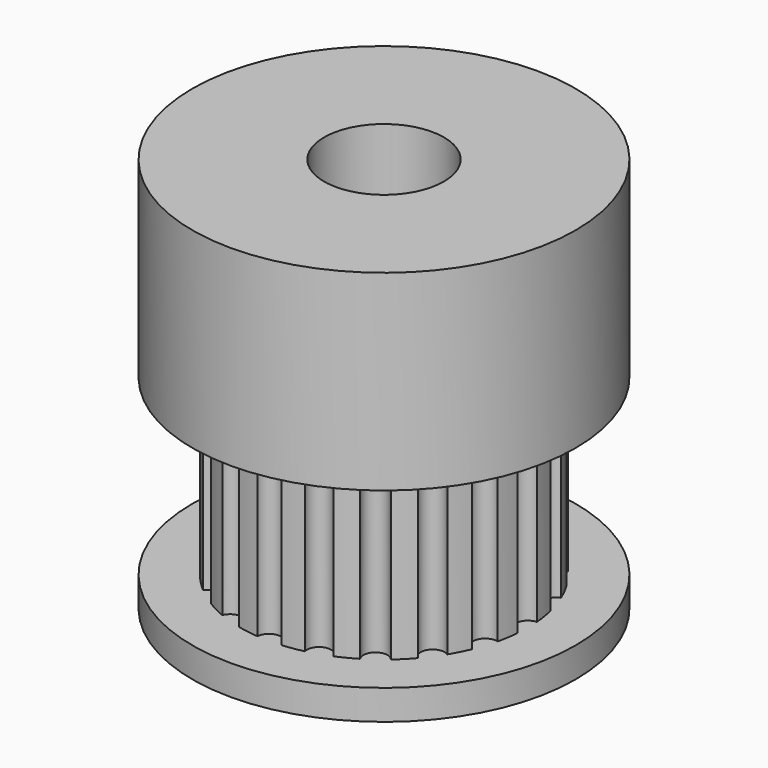
from build123d import *

# Parameters (mm, degrees)
SKETCH025_R        = 8
PAD014_DEPTH       = 8
SKETCH026_R        = 6
PAD015_DEPTH       = 7.25
SKETCH027_R        = 0.5
POCKET008_DEPTH    = 7.25
POLARPATTERN_COUNT = 20
SKETCH028_R        = 8
PAD016_DEPTH       = 1.25
SKETCH029_R        = 2.5
POCKET009_DEPTH    = 16.5


with BuildPart() as part:
    # Sketch025 → Pad014 (new body)
    with BuildSketch(Plane(origin=(20, -80, 0), x_dir=(1, 0, 0), z_dir=(0, 0, -1))):
        Circle(SKETCH025_R)
    extrude(amount=PAD014_DEPTH)

    # Sketch026 → Pad015 (new body)
    with BuildSketch(Plane(origin=(20, -80, -8), x_dir=(1, 0, 0), z_dir=(0, 0, -1))):
        Circle(SKETCH026_R)
    extrude(amount=PAD015_DEPTH)

    # Sketch027 → Pocket008 (cut)
    with BuildSketch(Plane(origin=(20, -80, -15.25), x_dir=(1, 0, 0), z_dir=(0, 0, -1))):
        with Locations((6, 0)):
            Circle(SKETCH027_R)
    pocket008 = extrude(amount=-POCKET008_DEPTH, mode=Mode.SUBTRACT)

    # PolarPattern: Pocket008 ×20 about axis
    polarpattern_axis = Axis((20, -80, -15.25), (0, 0, -1))
    for i in range(1, POLARPATTERN_COUNT):
        add(pocket008.rotate(polarpattern_axis, i * 360 / POLARPATTERN_COUNT), mode=Mode.SUBTRACT)

    # Sketch028 → Pad016 (new body)
    with BuildSketch(Plane(origin=(20, -80, -15.25), x_dir=(1, 0, 0), z_dir=(0, 0, -1))):
        Circle(SKETCH028_R)
    extrude(amount=PAD016_DEPTH)

    # Sketch029 → Pocket009 (cut)
    with BuildSketch(Plane(origin=(20, -80, -16.5), x_dir=(1, 0, 0), z_dir=(0, 0, -1))):
        Circle(SKETCH029_R)
    extrude(amount=-POCKET009_DEPTH, mode=Mode.SUBTRACT)


solid = part.part
